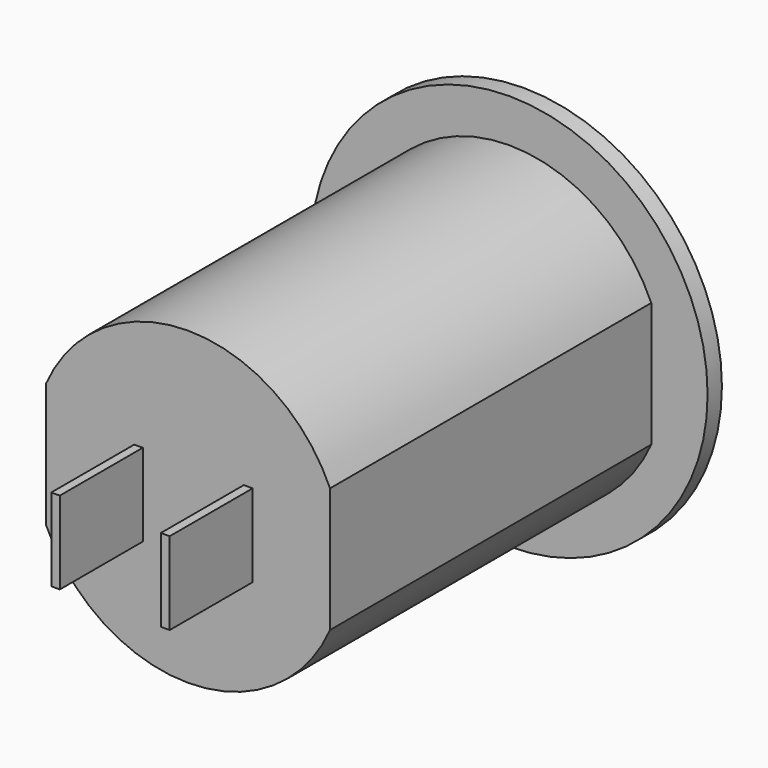
from build123d import *

# Parameters (mm, degrees)
F0_R      = 14.3002
F1_DEPTH  = 40.5892
F2_W      = 11.867738
F2_H      = 43.622876
F2_W_2    = 10.350018
F3_DEPTH  = 37.084
F5_R      = 18.288
F6_DEPTH  = 1.651
F7_W      = 12.7
F7_H      = 5.3975
F8_DEPTH  = 9.7536
F9_W      = 0.7874
F9_H      = 7.62
F9_W_2    = 0.8128
F10_DEPTH = 9.5631


with BuildPart() as f1:
    # F0 (on Front) → F1 (new body)
    with BuildSketch(Plane.XZ):
        Circle(F0_R)
    extrude(amount=-F1_DEPTH)

    # F2 (on face) → F3 (cut)
    with BuildSketch(Plane.XZ):
        with Locations((-19.027569, 0.496973)):
            Rectangle(F2_W, F2_H)
        with Locations((18.268709, 0.496973)):
            Rectangle(F2_W_2, F2_H)
    extrude(amount=-F3_DEPTH, mode=Mode.SUBTRACT)

    # F5 (on offset) → F6 (join)
    with BuildSketch(Plane(origin=(0, 38.6842, 0), x_dir=(1, 0, 0), z_dir=(0, 1, 0))):
        Circle(F5_R)
    extrude(amount=-F6_DEPTH)

    # F7 (on face) → F8 (cut)
    with BuildSketch(Plane(origin=(0, 40.5892, 0), x_dir=(-1, 0, 0), z_dir=(0, 1, 0))):
        with Locations((0, 4.15925)):
            Rectangle(F7_W, F7_H)
        with Locations((0, 4.15925)):
            Rectangle(F7_W, F7_H)
        with Locations((0, -4.15925)):
            Rectangle(F7_W, F7_H)
    extrude(amount=-F8_DEPTH, mode=Mode.SUBTRACT)

    # F9 (on face) → F10 (join)
    with BuildSketch(Plane.XZ):
        with Locations((-4.572, -0.381)):
            Rectangle(F9_W, F9_H)
        with Locations((5.5499, -0.381)):
            Rectangle(F9_W_2, F9_H)
    extrude(amount=F10_DEPTH)


solid = f1.part
